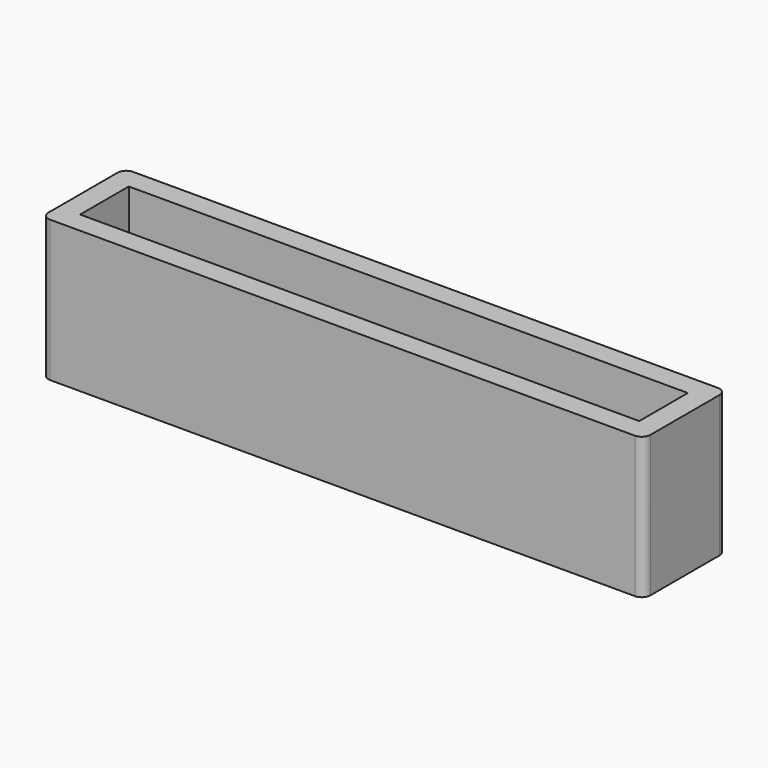
from build123d import *

# Parameters (mm, degrees)
F0_W     = 70.3
F0_H     = 16.5
F1_DEPTH = 12.1
F2_T     = -2.5
F3_R     = 1


with BuildPart() as f1:
    # F0 (on Front) → F1 (new body)
    with BuildSketch(Plane.XZ):
        Rectangle(F0_W, F0_H)
    extrude(amount=F1_DEPTH)

    # F2
    f2_openings = [f1.faces().sort_by_distance(p)[0] for p in [
        (0, -6.05, 8.25),
    ]]
    offset(amount=F2_T, openings=f2_openings)

    # F3
    f3_edges = [f1.edges().sort_by_distance(p)[0] for p in [
        (-35.15, -12.1, 0),
        (35.15, -12.1, 0),
        (35.15, 0, 0),
        (-35.15, 0, 0),
    ]]
    fillet(f3_edges, radius=F3_R)


solid = f1.part
